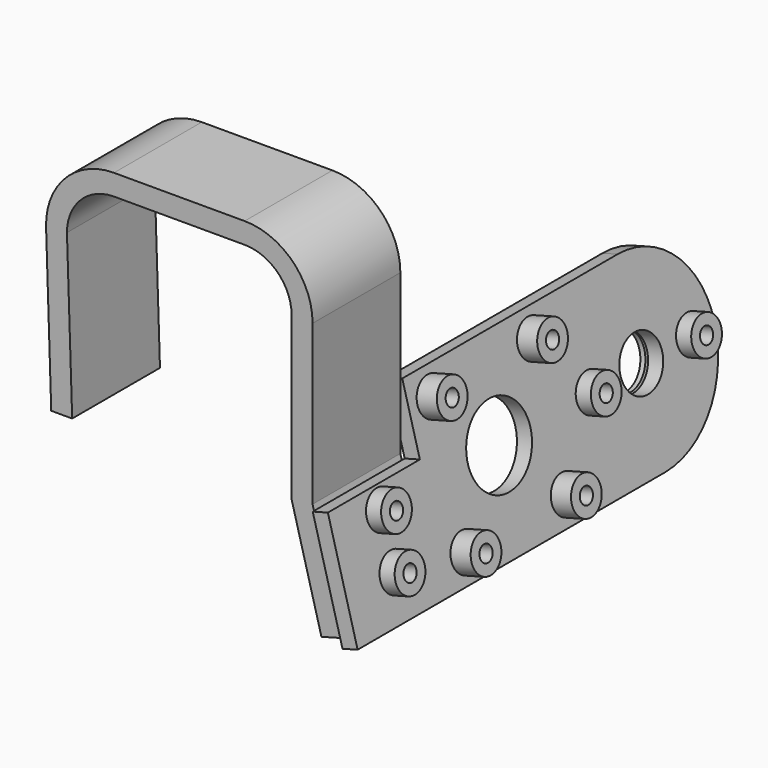
from build123d import *

# Parameters (mm, degrees)
PAD001_DEPTH            = 21
SKETCH_W                = 21
SKETCH_H                = 22
SKETCH_R                = 1.8
PAD017_DEPTH            = 4
SKETCH031_R             = 15.5
SKETCH031_R_2           = 2
SKETCH031_R_3           = 5
PAD_DEPTH               = 1
BODY005_PLACEMENT_ANGLE = 345
SKETCH032_W             = 35
SKETCH032_H             = 35
PAD032_DEPTH            = 3
SKETCH033_R             = 3.5
PAD033_DEPTH            = 4
SKETCH034_R             = 1.5
POCKET_DEPTH            = 7
SKETCH035_R             = 7.5
POCKET001_DEPTH         = 10
SKETCH036_W             = 22
SKETCH036_H             = 22
PAD034_DEPTH            = 3
SKETCH037_R             = 5
PAD035_DEPTH            = 3
SKETCH039_R             = 3.5
PAD036_DEPTH            = 3
SKETCH038_R             = 1.5
POCKET002_DEPTH         = 10
SKETCH040_R             = 3.5
PAD037_DEPTH            = 3
SKETCH041_R             = 1.5
POCKET003_DEPTH         = 6
BODY006_PLACEMENT_ANGLE = 345


with BuildPart() as clip:
    # Sketch001 → Pad001 (new body)
    with BuildSketch(Plane.XZ):
        with BuildLine():
            Line((-12, 44), (-37, 44))
            ThreePointArc((-37, 44), (-46.3394, 40.042987), (-49.993241, 30.580863))
            Line((-49.006762, 0), (-49.993241, 30.580863))
            Line((-45, 0), (-49.006762, 0))
            Line((-46, 31), (-45, 0))
            ThreePointArc((-37, 40), (-43.363961, 37.363961), (-46, 31))
            Line((-12, 40), (-37, 40))
            ThreePointArc((-3, 31), (-5.636039, 37.363961), (-12, 40))
            Line((-3, 31), (-3, 0))
            Line((1, 0), (-3, 0))
            Line((1, 31), (1, 0))
            ThreePointArc((1, 31), (-2.807612, 40.192388), (-12, 44))
        make_face()
    extrude(amount=PAD001_DEPTH)

    # Sketch → Pad017 (join)
    with BuildSketch(Plane(origin=(-3, 0, 0), x_dir=(0, 1, 0), z_dir=(0.965926, 0, 0.258819))):
        with Locations((-10.5, -11)):
            Rectangle(SKETCH_W, SKETCH_H)
        with Locations((-10, -5)):
            Circle(SKETCH_R, mode=Mode.SUBTRACT)
        with Locations((-10, -15)):
            Circle(SKETCH_R, mode=Mode.SUBTRACT)
    extrude(amount=PAD017_DEPTH)


with BuildPart() as bigled:
    # Sketch031 → Pad (new body)
    with BuildSketch(Plane.YZ):
        Circle(SKETCH031_R)
        with Locations((12, 0)):
            Circle(SKETCH031_R_2, mode=Mode.SUBTRACT)
        with Locations((-12, 0)):
            Circle(SKETCH031_R_2, mode=Mode.SUBTRACT)
        Circle(SKETCH031_R_3, mode=Mode.SUBTRACT)
    extrude(amount=PAD_DEPTH)


with BuildPart() as bigled_1:
    # Body005 placement: moved
    add(bigled.part.moved(Location((1.121869, 52, -4.992546))).rotate(Axis((1.121869, 52, -4.992546), (0, 1, 0)), BODY005_PLACEMENT_ANGLE))


with BuildPart() as camholes:
    # Sketch032 → Pad032 (new body)
    with BuildSketch(Plane.YZ):
        Rectangle(SKETCH032_W, SKETCH032_H)
    extrude(amount=PAD032_DEPTH)

    # Sketch033 → Pad033 (join)
    with BuildSketch(Plane.YZ.offset(3)):
        with Locations((12, 12.5)):
            Circle(SKETCH033_R)
        with Locations((-12, 12.5)):
            Circle(SKETCH033_R)
        with Locations((-12, -12.5)):
            Circle(SKETCH033_R)
        with Locations((12, -12.5)):
            Circle(SKETCH033_R)
    extrude(amount=PAD033_DEPTH)

    # Sketch034 → Pocket (cut)
    with BuildSketch(Plane.YZ):
        with Locations((12, 12.5)):
            Circle(SKETCH034_R)
        with Locations((-12, 12.5)):
            Circle(SKETCH034_R)
        with Locations((-12, -12.5)):
            Circle(SKETCH034_R)
        with Locations((12, -12.5)):
            Circle(SKETCH034_R)
    extrude(amount=POCKET_DEPTH, mode=Mode.SUBTRACT)

    # Sketch035 → Pocket001 (cut)
    with BuildSketch(Plane.YZ):
        Circle(SKETCH035_R)
    extrude(amount=POCKET001_DEPTH, mode=Mode.SUBTRACT)

    # Sketch036 → Pad034 (join)
    with BuildSketch(Plane.YZ):
        with Locations((-28.5, -6.5)):
            Rectangle(SKETCH036_W, SKETCH036_H)
    extrude(amount=PAD034_DEPTH)

    # Sketch037 → Pad035 (join)
    with BuildSketch(Plane.YZ):
        with BuildLine():
            Line((17, 17.5), (17, -17.5))
            Line((17, -17.5), (34, -17.5))
            ThreePointArc((34, -17.5), (51.5, 0), (34, 17.5))
            Line((34, 17.5), (17, 17.5))
        make_face()
        with Locations((34, 0)):
            Circle(SKETCH037_R, mode=Mode.SUBTRACT)
    extrude(amount=PAD035_DEPTH)

    # Sketch039 → Pad036 (join)
    with BuildSketch(Plane.YZ.offset(3)):
        with Locations((-28, 0.5)):
            Circle(SKETCH039_R)
        with Locations((-28, -9.5)):
            Circle(SKETCH039_R)
    extrude(amount=PAD036_DEPTH)

    # Sketch038 → Pocket002 (cut)
    with BuildSketch(Plane.YZ):
        with Locations((-28, 0.5)):
            Circle(SKETCH038_R)
        with Locations((-28, -9.5)):
            Circle(SKETCH038_R)
    extrude(amount=POCKET002_DEPTH, mode=Mode.SUBTRACT)

    # Sketch040 → Pad037 (join)
    with BuildSketch(Plane.YZ.offset(3)):
        with Locations((46, 0)):
            Circle(SKETCH040_R)
        with Locations((22, 0)):
            Circle(SKETCH040_R)
    extrude(amount=PAD037_DEPTH)

    # Sketch041 → Pocket003 (cut)
    with BuildSketch(Plane.YZ):
        with Locations((46, 0)):
            Circle(SKETCH041_R)
        with Locations((22, 0)):
            Circle(SKETCH041_R)
    extrude(amount=POCKET003_DEPTH, mode=Mode.SUBTRACT)


with BuildPart() as camholes_1:
    # Body006 placement: moved
    add(camholes.part.moved(Location((2.594439, 18, -4.718992))).rotate(Axis((2.594439, 18, -4.718992), (0, 1, 0)), BODY006_PLACEMENT_ANGLE))


solid = Compound([clip.part, bigled_1.part, camholes_1.part])
